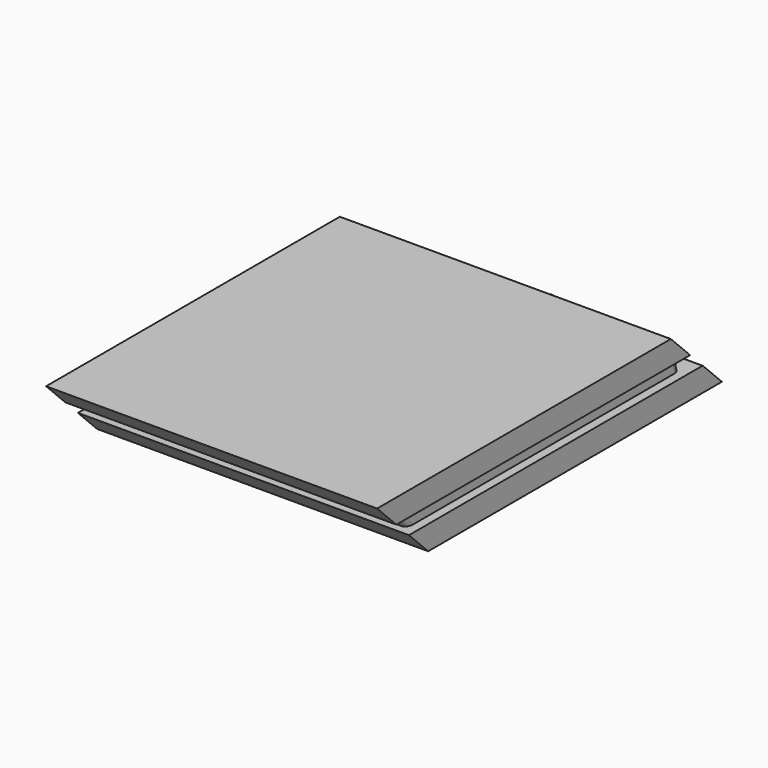
from build123d import *

# Parameters (mm, degrees)
F3_DEPTH  = 275
F4_START  = 7.3
F4_DEPTH  = 260.4
F5_DEPTH  = 275
F6_R      = 1
F7_R      = 4.5
F8_W      = 2
F8_H      = 26
F9_DEPTH  = 0.5
F11_W     = 2
F11_H     = 26
F12_DEPTH = 0.5


with BuildPart() as f3:
    # F0 (on Right) → F3 (new body)
    with BuildSketch(Plane.YZ):
        Polygon((-164.5640683174, 96.3435024023), (-144.5640683174, 76.4297415474), (160.4359316826, 76.4297415474), (140.4359316826, 96.3435024023), align=None)
    extrude(amount=F3_DEPTH)

    # F6
    f6_edges = [f3.edges().sort_by_distance(p)[0] for p in [
        (137.5, 140.435932, 96.343502),
    ]]
    fillet(f6_edges, radius=F6_R)

    # F11 (on face) → F12 (join)
    with BuildSketch(Plane(origin=(0, 118.0858376375, 118.5972237972), x_dir=(1, 0, 0), z_dir=(0, 0.7055773332, 0.7086329281))):
        with Locations((175.10542, 45.8578866332)):
            Rectangle(F11_W, F11_H)
    extrude(amount=F12_DEPTH)


with BuildPart() as f4:
    # F1 (on Right) → F4 (new body)
    with BuildSketch(Plane.YZ.offset(F4_START)):
        Polygon((-170.6203665172, 109.3435024023), (-157.5640683174, 96.3435024023), (125.4359316826, 96.3435024023), (122.2785264254, 109.3435024023), align=None)
    extrude(amount=F4_DEPTH)

    # F7
    f7_edges = [f4.edges().sort_by_distance(p)[0] for p in [
        (267.7, 123.857229, 102.843502),
        (7.3, 123.857229, 102.843502),
        (267.7, -164.092217, 102.843502),
        (7.3, -164.092217, 102.843502),
    ]]
    fillet(f7_edges, radius=F7_R)


with BuildPart() as f5:
    # F2 (on Right) → F5 (new body)
    with BuildSketch(Plane.YZ):
        Polygon((-197.6203687556, 129.257265486), (-177.6203665172, 109.3435024023), (127.3796334828, 109.3435024023), (107.3796312444, 129.257265486), align=None)
    extrude(amount=F5_DEPTH)

    # F8 (on face) → F9 (join)
    with BuildSketch(Plane(origin=(0, 118.0858376375, 118.5972237972), x_dir=(1, 0, 0), z_dir=(0, 0.7055773332, 0.7086329281))):
        with Locations((175.1054227352, -0.9965741724)):
            Rectangle(F8_W, F8_H)
    extrude(amount=F9_DEPTH)


solid = Compound([f3.part, f4.part, f5.part])
